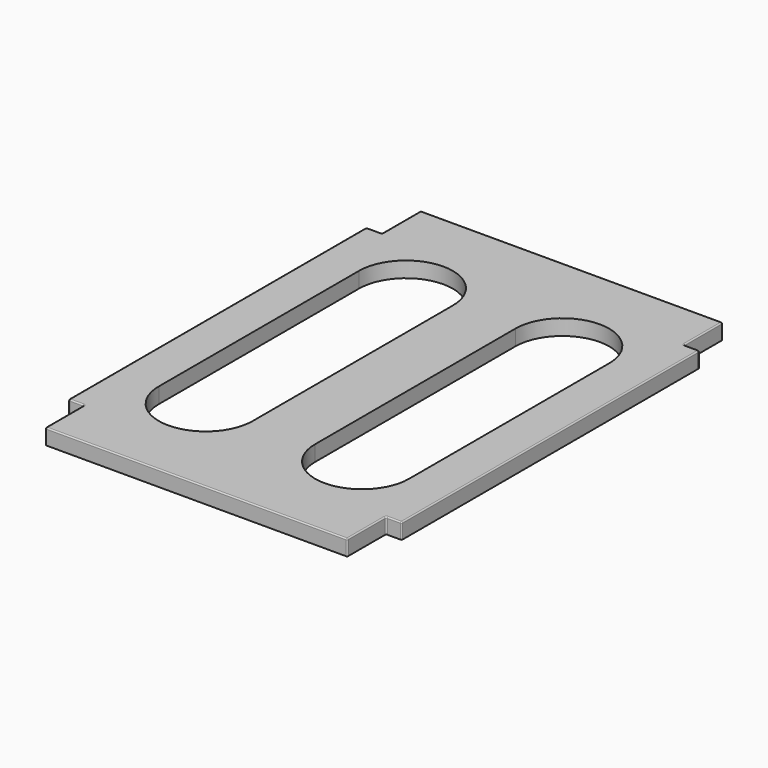
from build123d import *

# Parameters (mm, degrees)
SKETCH_W        = 106.5
SKETCH_H        = 150
PAD_DEPTH       = 5
SKETCH001_W     = 5
SKETCH001_H     = 15.5
POCKET_DEPTH    = 5
FILLET_R        = 0.4
POCKET001_DEPTH = 5


with BuildPart() as part:
    # Sketch → Pad (new body)
    with BuildSketch(Plane.XY):
        Rectangle(SKETCH_W, SKETCH_H)
    extrude(amount=PAD_DEPTH)

    # Sketch001 (on Face6 of Pad) → Pocket (cut)
    with BuildSketch(Plane.XY.offset(5)):
        with Locations((-50.75, 67.25)):
            Rectangle(SKETCH001_W, SKETCH001_H)
        with Locations((50.75, 67.25)):
            Rectangle(SKETCH001_W, SKETCH001_H)
        with Locations((50.75, -67.25)):
            Rectangle(SKETCH001_W, SKETCH001_H)
        with Locations((-50.75, -67.25)):
            Rectangle(SKETCH001_W, SKETCH001_H)
    extrude(amount=-POCKET_DEPTH, mode=Mode.SUBTRACT)

    # Fillet
    fillet_edges = [part.edges().sort_by_distance(p)[0] for p in [
        (-48.25, 75, 2.5),
        (-48.25, 59.5, 2.5),
        (-53.25, 59.5, 2.5),
        (48.25, 75, 2.5),
        (48.25, 59.5, 2.5),
        (53.25, 59.5, 2.5),
        (53.25, -59.5, 2.5),
        (48.25, -59.5, 2.5),
        (48.25, -75, 2.5),
        (-48.25, -75, 2.5),
        (-48.25, -59.5, 2.5),
        (-53.25, -59.5, 2.5),
        (-48.25, 67.25, 5),
        (-50.75, 59.5, 5),
        (-53.25, 0, 5),
        (-50.75, -59.5, 5),
        (-48.25, -67.25, 5),
        (0, -75, 5),
        (48.25, -67.25, 5),
        (50.75, -59.5, 5),
        (53.25, 0, 5),
        (50.75, 59.5, 5),
        (48.25, 67.25, 5),
        (0, 75, 5),
    ]]
    fillet(fillet_edges, radius=FILLET_R)

    # Sketch002 (on Face29 of Fillet) → Pocket001 (cut)
    with BuildSketch(Plane.XY.offset(5)):
        with BuildLine():
            ThreePointArc((-40, -40), (-25, -55), (-10, -40))
            Line((-10, -40), (-10, 40))
            ThreePointArc((-10, 40), (-25, 55), (-40, 40))
            Line((-40, -40), (-40, 40))
        make_face()
        with BuildLine():
            ThreePointArc((10, -40), (25, -55), (40, -40))
            Line((40, -40), (40, 40))
            ThreePointArc((40, 40), (25, 55), (10, 40))
            Line((10, -40), (10, 40))
        make_face()
    extrude(amount=-POCKET001_DEPTH, mode=Mode.SUBTRACT)


solid = part.part
